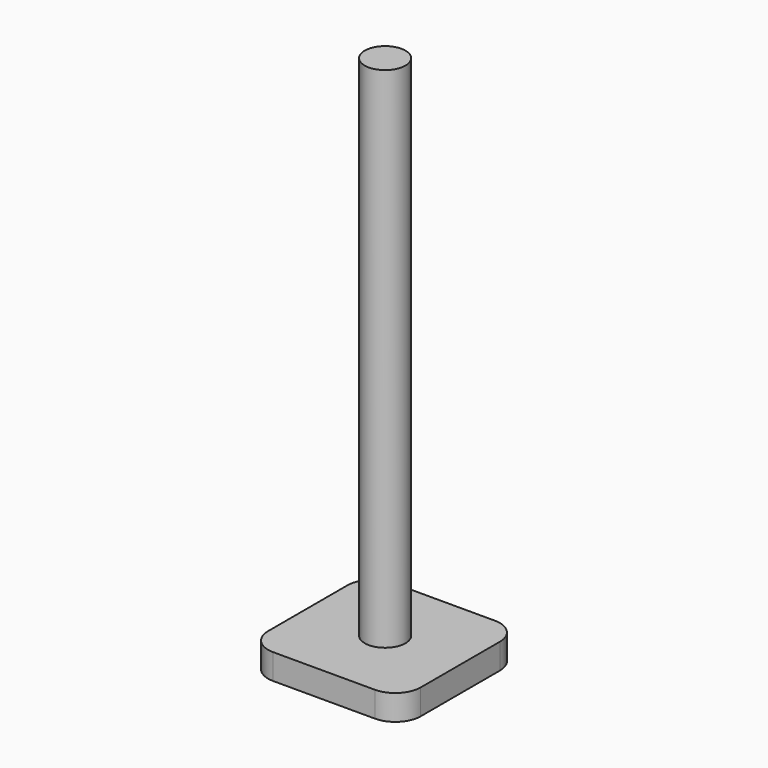
from build123d import *

# Parameters (mm, degrees)
F1_DEPTH = 5
F2_R     = 4
F3_DEPTH = 100


with BuildPart() as f1:
    # F0 (on Top) → F1 (new body)
    with BuildSketch(Plane.XY):
        with BuildLine():
            Line((10, 14.449243), (-10, 14.449243))
            ThreePointArc((-10, 14.449243), (-13.535534, 12.984777), (-15, 9.449243))
            Line((-15, 9.449243), (-15, -10))
            ThreePointArc((-15, -10), (-13.535534, -13.535534), (-10, -15))
            Line((-10, -15), (10, -15))
            ThreePointArc((10, -15), (13.535534, -13.535534), (15, -10))
            Line((15, -10), (15, 9.449243))
            ThreePointArc((15, 9.449243), (13.535534, 12.984777), (10, 14.449243))
        make_face()
    extrude(amount=F1_DEPTH)

    # F2 (on face) → F3 (join)
    with BuildSketch(Plane.XY.offset(5)):
        Circle(F2_R)
    extrude(amount=F3_DEPTH)


solid = f1.part
